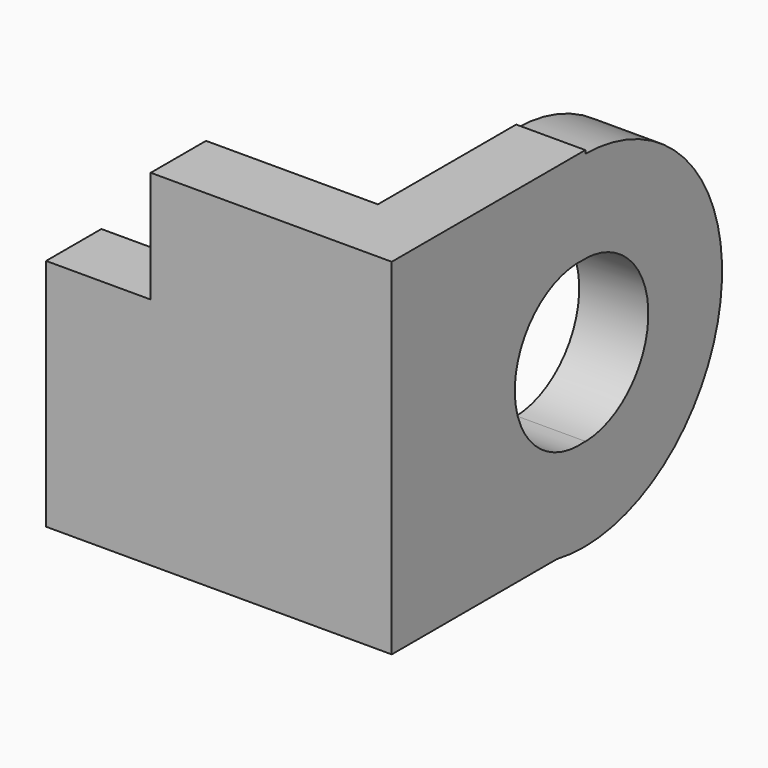
from build123d import *

# Parameters (mm, degrees)
F1_DEPTH = 15.24
F2_R     = 38.1
F3_DEPTH = 15.24
F4_R     = 17.78
F5_DEPTH = 15.24
F6_W     = 38.1
F6_H     = 76.2
F7_DEPTH = 15.24
F8_R     = 17.78
F9_DEPTH = 15.24


with BuildPart() as f1:
    # F0 (on Front) → F1 (new body)
    with BuildSketch(Plane.XZ):
        Polygon((0, 76.2), (-53.134054, 76.2), (-53.134054, 51.589463), (-76.2, 51.589463), (-76.2, 0), (0, 0), align=None)
    extrude(amount=F1_DEPTH)

    # F2 (on Right) → F3 (join)
    with BuildSketch(Plane.YZ):
        with Locations((37.68811, 37.37919)):
            Circle(F2_R)
    extrude(amount=-F3_DEPTH)

    # F4 (on face) → F5 (cut)
    with BuildSketch(Plane.YZ):
        with Locations((37.68811, 37.37919)):
            Circle(F4_R)
    extrude(amount=-F5_DEPTH, mode=Mode.SUBTRACT)

    # F6 (on Right) → F7 (join)
    with BuildSketch(Plane.YZ):
        with Locations((19.05, 38.1)):
            Rectangle(F6_W, F6_H)
    extrude(amount=-F7_DEPTH)

    # F8 (on face) → F9 (cut)
    with BuildSketch(Plane.YZ):
        with Locations((36.452431, 37.37919)):
            Circle(F8_R)
    extrude(amount=-F9_DEPTH, mode=Mode.SUBTRACT)


solid = f1.part
